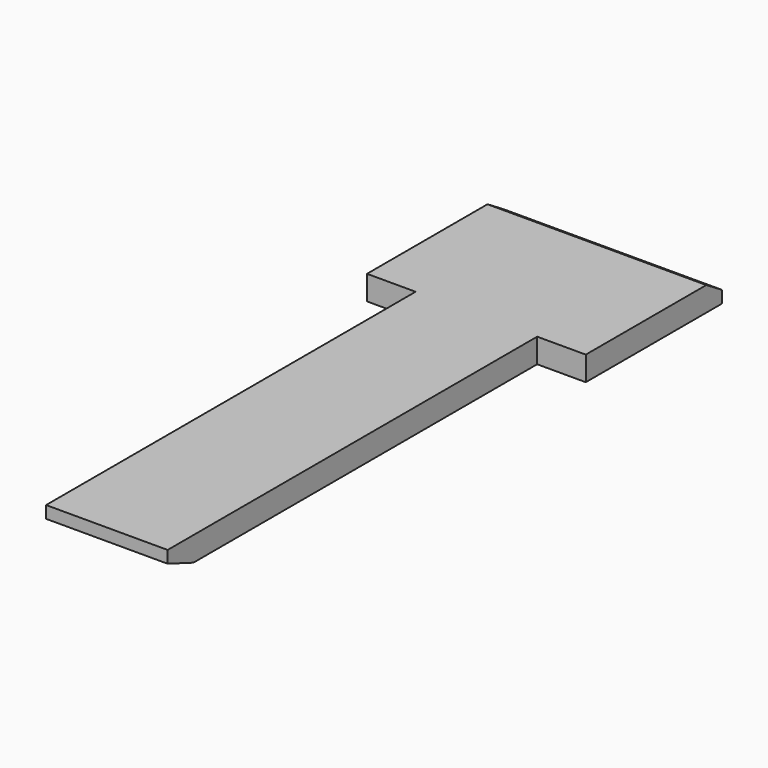
from build123d import *

# Parameters (mm, degrees)
F0_W     = 450
F0_H     = 1300
F1_DEPTH = 50
F2_W     = 100
F2_H     = 950
F3_DEPTH = 50.001
F5_DEPTH = 350.001
F7_DEPTH = 450.001
F8_R     = 26
F9_DEPTH = 25


with BuildPart() as f1:
    # F0 (on Top) → F1 (new body)
    with BuildSketch(Plane.XY):
        with Locations((-215.0315403938, 604.3549530208)):
            Rectangle(F0_W, F0_H)
    extrude(amount=F1_DEPTH)

    # F2 (on face) → F3 (cut, through all)
    with BuildSketch(Plane.XY.offset(50)):
        with Locations((-390.0315403938, 429.3549530208)):
            Rectangle(F2_W, F2_H)
        with Locations((-40.0315403938, 429.3549530208)):
            Rectangle(F2_W, F2_H)
    extrude(amount=-F3_DEPTH, mode=Mode.SUBTRACT)

    # F4 (on face) → F5 (cut, through all)
    with BuildSketch(Plane.YZ.offset(-90.0315403938)):
        Polygon((20.675143227, 0), (-45.6450469792, 25), (-45.6450469792, 0), align=None)
    extrude(amount=-F5_DEPTH, mode=Mode.SUBTRACT)

    # F6 (on face) → F7 (cut, through all)
    with BuildSketch(Plane.YZ.offset(9.9684596062)):
        Polygon((1214.1013145447, 50), (1254.3549530208, 25), (1254.3549530208, 50), align=None)
    extrude(amount=-F7_DEPTH, mode=Mode.SUBTRACT)

    # F8 (on face) → F9 (cut)
    with BuildSketch(Plane(origin=(0, 2.5723708618, 6.8240049934), x_dir=(1, 0, 0), z_dir=(0, -0.3527301048, -0.9357251056))):
        with Locations((-140.0315403938, 16.0916092218)):
            Circle(F8_R)
        with Locations((-290.0315403938, 16.0916092218)):
            Circle(F8_R)
    extrude(amount=-F9_DEPTH, mode=Mode.SUBTRACT)


solid = f1.part
